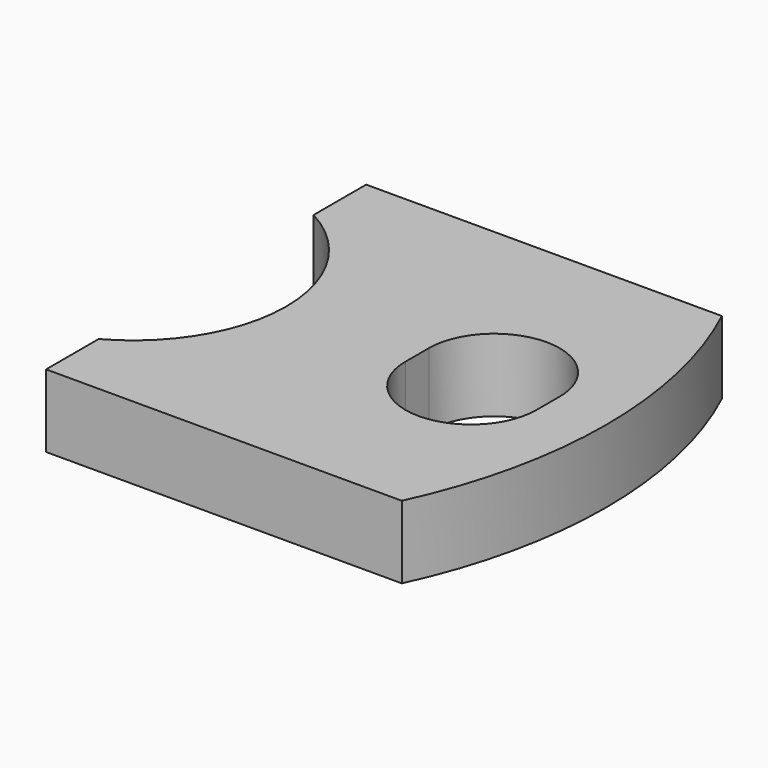
from build123d import *

# Parameters (mm, degrees)
F1_DEPTH = 1


with BuildPart() as f1:
    # F0 (on Top) → F1 (new body)
    with BuildSketch(Plane.XY):
        with BuildLine():
            ThreePointArc((1, 1.846619), (2.1, 0), (1, -1.846619))
            Line((1, -1.846619), (1, -2.75))
            Line((1, -2.75), (5.889609, -2.75))
            ThreePointArc((5.889609, -2.75), (6.5, 0), (5.889609, 2.75))
            Line((5.889609, 2.75), (1, 2.75))
            Line((1, 2.75), (1, 1.846619))
        make_face()
        with BuildLine():
            Line((3.9, -0.2), (3.9, 0.2))
            ThreePointArc((3.9, 0.2), (4.8, 1.1), (5.7, 0.2))
            Line((5.7, 0.2), (5.7, -0.2))
            ThreePointArc((5.7, -0.2), (4.8, -1.1), (3.9, -0.2))
        make_face(mode=Mode.SUBTRACT)
    extrude(amount=F1_DEPTH)


solid = f1.part
